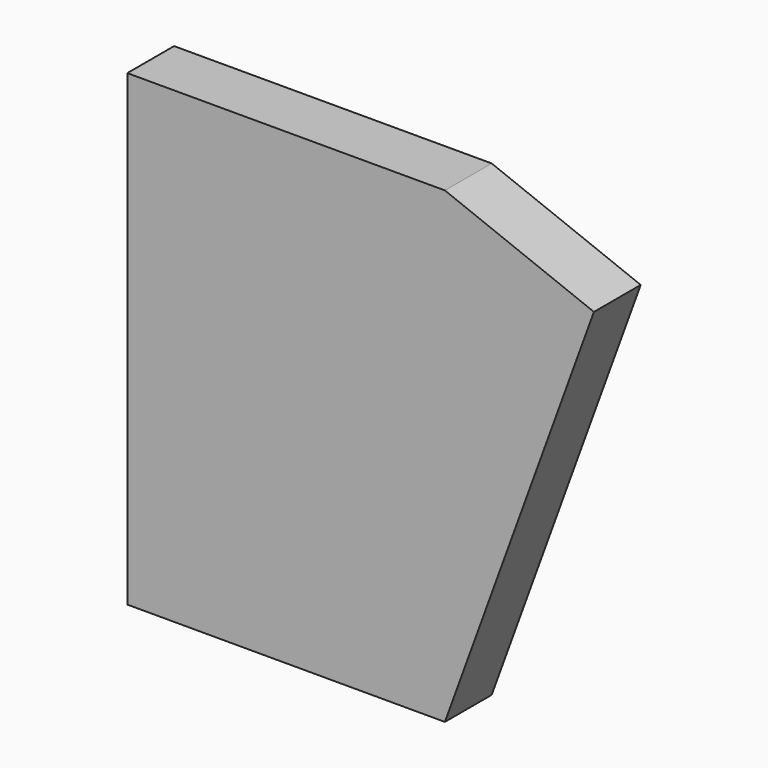
from build123d import *

# Parameters (mm, degrees)
PAD_DEPTH               = 10
PADBODY_PLACEMENT_ANGLE = 90


with BuildPart() as part:
    # Sketch → Pad (new body)
    with BuildSketch(Plane.XY):
        Polygon((0, 0), (54.3, 0), (79.777916, 70), (54.3, 80), (0, 80), align=None)
    extrude(amount=PAD_DEPTH)


with BuildPart() as part_1:
    # PadBody placement: moved
    add(part.part.rotate(Axis((0, 0, 0), (1, 0, 0)), PADBODY_PLACEMENT_ANGLE))


solid = part_1.part
